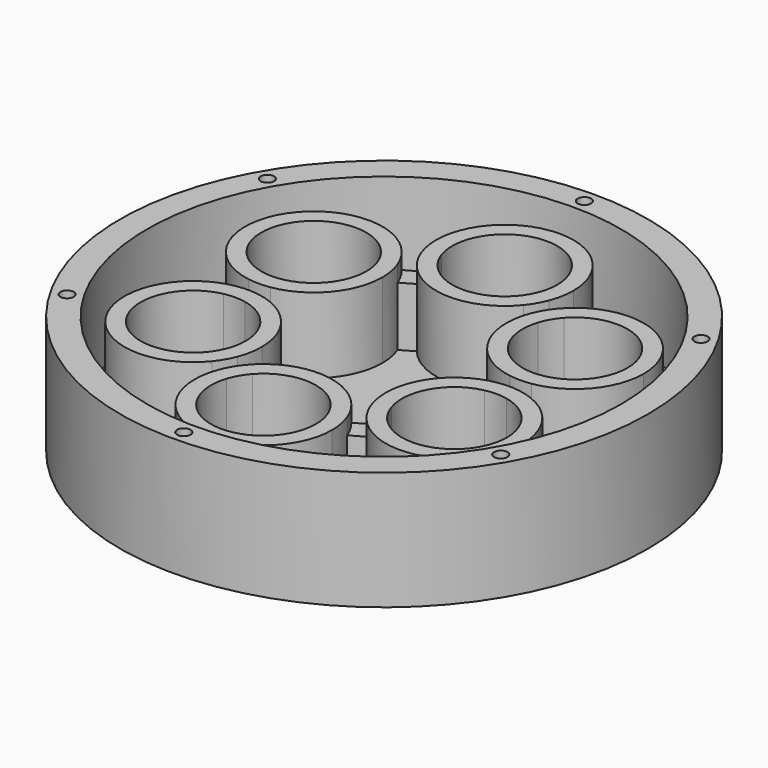
from build123d import *

# Parameters (mm, degrees)
F0_R     = 49
F0_R_2   = 1.25
F0_R_3   = 44
F0_R_4   = 1.75
F1_DEPTH = 5
F2_DEPTH = 19
F3_DEPTH = 16
F4_DEPTH = 22
F5_DEPTH = 20


with BuildPart() as f1:
    # F0 (on Top) → F1 (new body)
    with BuildSketch(Plane.XY):
        Circle(F0_R)
        with Locations((0, -46.4752086141)):
            Circle(F0_R_2, mode=Mode.SUBTRACT)
        with Locations((-40.248711306, -23.237604307)):
            Circle(F0_R_2, mode=Mode.SUBTRACT)
        Circle(F0_R_3, mode=Mode.SUBTRACT)
        with Locations((40.248711306, -23.237604307)):
            Circle(F0_R_2, mode=Mode.SUBTRACT)
        with Locations((-40.248711306, 23.237604307)):
            Circle(F0_R_2, mode=Mode.SUBTRACT)
        with Locations((0, 46.4752086141)):
            Circle(F0_R_2, mode=Mode.SUBTRACT)
        with Locations((40.248711306, 23.237604307)):
            Circle(F0_R_2, mode=Mode.SUBTRACT)
        Circle(F0_R_3)
        with BuildLine():
            Line((-14.3435806327, 22.0281309373), (-11.9051306732, 23.4359706778))
            ThreePointArc((-11.9051306732, 23.4359706778), (-2.3207847721, 40.5370035512), (12.75, 28))
            ThreePointArc((12.75, 28), (12.5370035512, 25.6792152279), (11.9051306732, 23.4359706778))
            Line((11.9051306732, 23.4359706778), (14.3435806327, 22.0281309373))
            ThreePointArc((14.3435806327, 22.0281309373), (28.5073545122, 26.0177559487), (36.998711306, 14))
            ThreePointArc((36.998711306, 14), (33.9456824826, 5.7216396551), (26.248711306, 1.4078397405))
            Line((26.248711306, 1.4078397405), (26.248711306, -1.4078397405))
            ThreePointArc((26.248711306, -1.4078397405), (33.9456824826, -5.7216396551), (36.998711306, -14))
            ThreePointArc((36.998711306, -14), (28.5073545122, -26.0177559487), (14.3435806327, -22.0281309373))
            Line((14.3435806327, -22.0281309373), (11.9051306732, -23.4359706778))
            ThreePointArc((11.9051306732, -23.4359706778), (12.5370035512, -25.6792152279), (12.75, -28))
            ThreePointArc((12.75, -28), (-2.3207847721, -40.5370035512), (-11.9051306732, -23.4359706778))
            Line((-11.9051306732, -23.4359706778), (-14.3435806327, -22.0281309373))
            ThreePointArc((-14.3435806327, -22.0281309373), (-35.2905352042, -20.375), (-26.248711306, -1.4078397405))
            Line((-26.248711306, -1.4078397405), (-26.248711306, 1.4078397405))
            ThreePointArc((-26.248711306, 1.4078397405), (-35.2905352042, 20.375), (-14.3435806327, 22.0281309373))
        make_face(mode=Mode.SUBTRACT)
        with BuildLine():
            ThreePointArc((9.9051306732, 19.9718690627), (0, 15.25), (-9.9051306732, 19.9718690627))
            Line((-9.9051306732, 19.9718690627), (-12.3435806327, 18.5640293222))
            ThreePointArc((-12.3435806327, 18.5640293222), (-11.7117077548, 16.3207847721), (-11.498711306, 14))
            ThreePointArc((-11.498711306, 14), (-14.5517401294, 5.7216396551), (-22.248711306, 1.4078397405))
            Line((-22.248711306, 1.4078397405), (-22.248711306, -1.4078397405))
            ThreePointArc((-22.248711306, -1.4078397405), (-14.5517401294, -5.7216396551), (-11.498711306, -14))
            ThreePointArc((-11.498711306, -14), (-11.7117077548, -16.3207847721), (-12.3435806327, -18.5640293222))
            Line((-12.3435806327, -18.5640293222), (-9.9051306732, -19.9718690627))
            ThreePointArc((-9.9051306732, -19.9718690627), (0, -15.25), (9.9051306732, -19.9718690627))
            Line((9.9051306732, -19.9718690627), (12.3435806327, -18.5640293222))
            ThreePointArc((12.3435806327, -18.5640293222), (13.2068874077, -7.625), (22.248711306, -1.4078397405))
            Line((22.248711306, -1.4078397405), (22.248711306, 1.4078397405))
            ThreePointArc((22.248711306, 1.4078397405), (13.2068874077, 7.625), (12.3435806327, 18.5640293222))
            Line((12.3435806327, 18.5640293222), (9.9051306732, 19.9718690627))
        make_face()
        Circle(F0_R_4, mode=Mode.SUBTRACT)
        with BuildLine():
            ThreePointArc((33.998711306, 14), (27.7298479525, 23.1073699633), (16.9845189679, 20.5033844786))
            Line((16.9845189679, 20.5033844786), (26.248711306, 15.1547005384))
            Line((26.248711306, 15.1547005384), (26.248711306, 4.457332658))
            ThreePointArc((26.248711306, 4.457332658), (31.8171490576, 7.8533545734), (33.998711306, 14))
        make_face()
        with BuildLine():
            Line((0, -30.3094010768), (-9.264192338, -24.9607171366))
            ThreePointArc((-9.264192338, -24.9607171366), (-1.5389322117, -37.6277820731), (9.75, -28))
            ThreePointArc((9.75, -28), (9.6277820731, -26.4610677883), (9.264192338, -24.9607171366))
            Line((9.264192338, -24.9607171366), (0, -30.3094010768))
        make_face()
        with BuildLine():
            ThreePointArc((33.998711306, -14), (31.8171490576, -7.8533545734), (26.248711306, -4.457332658))
            Line((26.248711306, -4.457332658), (26.248711306, -15.1547005384))
            Line((26.248711306, -15.1547005384), (16.9845189679, -20.5033844786))
            ThreePointArc((16.9845189679, -20.5033844786), (27.7298479525, -23.1073699633), (33.998711306, -14))
        make_face()
        with BuildLine():
            Line((-26.248711306, -15.1547005384), (-26.248711306, -4.457332658))
            ThreePointArc((-26.248711306, -4.457332658), (-32.6924589929, -18.875), (-16.9845189679, -20.5033844786))
            Line((-16.9845189679, -20.5033844786), (-26.248711306, -15.1547005384))
        make_face()
        with BuildLine():
            ThreePointArc((9.264192338, 24.9607171366), (9.6277820731, 26.4610677883), (9.75, 28))
            ThreePointArc((9.75, 28), (-1.5389322117, 37.6277820731), (-9.264192338, 24.9607171366))
            Line((-9.264192338, 24.9607171366), (0, 30.3094010768))
            Line((0, 30.3094010768), (9.264192338, 24.9607171366))
        make_face()
        with BuildLine():
            Line((-26.248711306, 15.1547005384), (-16.9845189679, 20.5033844786))
            ThreePointArc((-16.9845189679, 20.5033844786), (-32.6924589929, 18.875), (-26.248711306, 4.457332658))
            Line((-26.248711306, 4.457332658), (-26.248711306, 15.1547005384))
        make_face()
        with BuildLine():
            ThreePointArc((36.998711306, -14), (33.9456824826, -5.7216396551), (26.248711306, -1.4078397405))
            Line((26.248711306, -1.4078397405), (26.248711306, -4.457332658))
            ThreePointArc((26.248711306, -4.457332658), (31.8171490576, -7.8533545734), (33.998711306, -14))
            ThreePointArc((33.998711306, -14), (27.7298479525, -23.1073699633), (16.9845189679, -20.5033844786))
            Line((16.9845189679, -20.5033844786), (14.3435806327, -22.0281309373))
            ThreePointArc((14.3435806327, -22.0281309373), (28.5073545122, -26.0177559487), (36.998711306, -14))
        make_face()
        with BuildLine():
            ThreePointArc((-9.264192338, 24.9607171366), (-1.5389322117, 37.6277820731), (9.75, 28))
            ThreePointArc((9.75, 28), (9.6277820731, 26.4610677883), (9.264192338, 24.9607171366))
            Line((9.264192338, 24.9607171366), (11.9051306732, 23.4359706778))
            ThreePointArc((11.9051306732, 23.4359706778), (12.5370035512, 25.6792152279), (12.75, 28))
            ThreePointArc((12.75, 28), (-2.3207847721, 40.5370035512), (-11.9051306732, 23.4359706778))
            Line((-11.9051306732, 23.4359706778), (-9.264192338, 24.9607171366))
        make_face()
        with BuildLine():
            Line((-9.264192338, -24.9607171366), (-11.9051306732, -23.4359706778))
            ThreePointArc((-11.9051306732, -23.4359706778), (-2.3207847721, -40.5370035512), (12.75, -28))
            ThreePointArc((12.75, -28), (12.5370035512, -25.6792152279), (11.9051306732, -23.4359706778))
            Line((11.9051306732, -23.4359706778), (9.264192338, -24.9607171366))
            ThreePointArc((9.264192338, -24.9607171366), (9.6277820731, -26.4610677883), (9.75, -28))
            ThreePointArc((9.75, -28), (-1.5389322117, -37.6277820731), (-9.264192338, -24.9607171366))
        make_face()
        with BuildLine():
            Line((-16.9845189679, 20.5033844786), (-14.3435806327, 22.0281309373))
            ThreePointArc((-14.3435806327, 22.0281309373), (-35.2905352042, 20.375), (-26.248711306, 1.4078397405))
            Line((-26.248711306, 1.4078397405), (-26.248711306, 4.457332658))
            ThreePointArc((-26.248711306, 4.457332658), (-32.6924589929, 18.875), (-16.9845189679, 20.5033844786))
        make_face()
        with BuildLine():
            Line((-26.248711306, -4.457332658), (-26.248711306, -1.4078397405))
            ThreePointArc((-26.248711306, -1.4078397405), (-35.2905352042, -20.375), (-14.3435806327, -22.0281309373))
            Line((-14.3435806327, -22.0281309373), (-16.9845189679, -20.5033844786))
            ThreePointArc((-16.9845189679, -20.5033844786), (-32.6924589929, -18.875), (-26.248711306, -4.457332658))
        make_face()
        with BuildLine():
            ThreePointArc((36.998711306, 14), (28.5073545122, 26.0177559487), (14.3435806327, 22.0281309373))
            Line((14.3435806327, 22.0281309373), (16.9845189679, 20.5033844786))
            ThreePointArc((16.9845189679, 20.5033844786), (27.7298479525, 23.1073699633), (33.998711306, 14))
            ThreePointArc((33.998711306, 14), (31.8171490576, 7.8533545734), (26.248711306, 4.457332658))
            Line((26.248711306, 4.457332658), (26.248711306, 1.4078397405))
            ThreePointArc((26.248711306, 1.4078397405), (33.9456824826, 5.7216396551), (36.998711306, 14))
        make_face()
        with BuildLine():
            ThreePointArc((-22.248711306, -4.457332658), (-24.248711306, -4.25), (-26.248711306, -4.457332658))
            Line((-26.248711306, -4.457332658), (-26.248711306, -15.1547005384))
            Line((-26.248711306, -15.1547005384), (-16.9845189679, -20.5033844786))
            ThreePointArc((-16.9845189679, -20.5033844786), (-15.8049636191, -18.875), (-14.9845189679, -17.0392828634))
            Line((-14.9845189679, -17.0392828634), (-22.248711306, -12.8452994616))
            Line((-22.248711306, -12.8452994616), (-22.248711306, -4.457332658))
        make_face()
        with BuildLine():
            ThreePointArc((-7.264192338, -21.4966155214), (-8.4437476869, -23.125), (-9.264192338, -24.9607171366))
            Line((-9.264192338, -24.9607171366), (0, -30.3094010768))
            Line((0, -30.3094010768), (9.264192338, -24.9607171366))
            ThreePointArc((9.264192338, -24.9607171366), (8.4437476869, -23.125), (7.264192338, -21.4966155214))
            Line((7.264192338, -21.4966155214), (0, -25.6905989232))
            Line((0, -25.6905989232), (-7.264192338, -21.4966155214))
        make_face()
        with BuildLine():
            Line((26.248711306, 15.1547005384), (16.9845189679, 20.5033844786))
            ThreePointArc((16.9845189679, 20.5033844786), (15.8049636191, 18.875), (14.9845189679, 17.0392828634))
            Line((14.9845189679, 17.0392828634), (22.248711306, 12.8452994616))
            Line((22.248711306, 12.8452994616), (22.248711306, 4.457332658))
            ThreePointArc((22.248711306, 4.457332658), (24.248711306, 4.25), (26.248711306, 4.457332658))
            Line((26.248711306, 4.457332658), (26.248711306, 15.1547005384))
        make_face()
        with BuildLine():
            Line((0, 30.3094010768), (-9.264192338, 24.9607171366))
            ThreePointArc((-9.264192338, 24.9607171366), (-8.4437476869, 23.125), (-7.264192338, 21.4966155214))
            Line((-7.264192338, 21.4966155214), (0, 25.6905989232))
            Line((0, 25.6905989232), (7.264192338, 21.4966155214))
            ThreePointArc((7.264192338, 21.4966155214), (8.4437476869, 23.125), (9.264192338, 24.9607171366))
            Line((9.264192338, 24.9607171366), (0, 30.3094010768))
        make_face()
        with BuildLine():
            ThreePointArc((26.248711306, -4.457332658), (24.248711306, -4.25), (22.248711306, -4.457332658))
            Line((22.248711306, -4.457332658), (22.248711306, -12.8452994616))
            Line((22.248711306, -12.8452994616), (14.9845189679, -17.0392828634))
            ThreePointArc((14.9845189679, -17.0392828634), (15.8049636191, -18.875), (16.9845189679, -20.5033844786))
            Line((16.9845189679, -20.5033844786), (26.248711306, -15.1547005384))
            Line((26.248711306, -15.1547005384), (26.248711306, -4.457332658))
        make_face()
        with BuildLine():
            ThreePointArc((-14.9845189679, 17.0392828634), (-15.8049636191, 18.875), (-16.9845189679, 20.5033844786))
            Line((-16.9845189679, 20.5033844786), (-26.248711306, 15.1547005384))
            Line((-26.248711306, 15.1547005384), (-26.248711306, 4.457332658))
            ThreePointArc((-26.248711306, 4.457332658), (-24.248711306, 4.25), (-22.248711306, 4.457332658))
            Line((-22.248711306, 4.457332658), (-22.248711306, 12.8452994616))
            Line((-22.248711306, 12.8452994616), (-14.9845189679, 17.0392828634))
        make_face()
        with BuildLine():
            ThreePointArc((-14.498711306, -14), (-16.6802735544, -7.8533545734), (-22.248711306, -4.457332658))
            Line((-22.248711306, -4.457332658), (-22.248711306, -12.8452994616))
            Line((-22.248711306, -12.8452994616), (-14.9845189679, -17.0392828634))
            ThreePointArc((-14.9845189679, -17.0392828634), (-14.6209292328, -15.5389322117), (-14.498711306, -14))
        make_face()
        with BuildLine():
            ThreePointArc((7.264192338, -21.4966155214), (0, -18.25), (-7.264192338, -21.4966155214))
            Line((-7.264192338, -21.4966155214), (0, -25.6905989232))
            Line((0, -25.6905989232), (7.264192338, -21.4966155214))
        make_face()
        with BuildLine():
            ThreePointArc((-14.498711306, 14), (-14.6209292328, 15.5389322117), (-14.9845189679, 17.0392828634))
            Line((-14.9845189679, 17.0392828634), (-22.248711306, 12.8452994616))
            Line((-22.248711306, 12.8452994616), (-22.248711306, 4.457332658))
            ThreePointArc((-22.248711306, 4.457332658), (-16.6802735544, 7.8533545734), (-14.498711306, 14))
        make_face()
        with BuildLine():
            Line((22.248711306, 12.8452994616), (14.9845189679, 17.0392828634))
            ThreePointArc((14.9845189679, 17.0392828634), (15.8049636191, 9.125), (22.248711306, 4.457332658))
            Line((22.248711306, 4.457332658), (22.248711306, 12.8452994616))
        make_face()
        with BuildLine():
            Line((22.248711306, -12.8452994616), (22.248711306, -4.457332658))
            ThreePointArc((22.248711306, -4.457332658), (15.8049636191, -9.125), (14.9845189679, -17.0392828634))
            Line((14.9845189679, -17.0392828634), (22.248711306, -12.8452994616))
        make_face()
        with BuildLine():
            Line((0, 25.6905989232), (-7.264192338, 21.4966155214))
            ThreePointArc((-7.264192338, 21.4966155214), (0, 18.25), (7.264192338, 21.4966155214))
            Line((7.264192338, 21.4966155214), (0, 25.6905989232))
        make_face()
        with BuildLine():
            Line((22.248711306, -4.457332658), (22.248711306, -1.4078397405))
            ThreePointArc((22.248711306, -1.4078397405), (13.2068874077, -7.625), (12.3435806327, -18.5640293222))
            Line((12.3435806327, -18.5640293222), (14.9845189679, -17.0392828634))
            ThreePointArc((14.9845189679, -17.0392828634), (15.8049636191, -9.125), (22.248711306, -4.457332658))
        make_face()
        with BuildLine():
            ThreePointArc((9.9051306732, -19.9718690627), (0, -15.25), (-9.9051306732, -19.9718690627))
            Line((-9.9051306732, -19.9718690627), (-7.264192338, -21.4966155214))
            ThreePointArc((-7.264192338, -21.4966155214), (0, -18.25), (7.264192338, -21.4966155214))
            Line((7.264192338, -21.4966155214), (9.9051306732, -19.9718690627))
        make_face()
        with BuildLine():
            ThreePointArc((7.264192338, 21.4966155214), (0, 18.25), (-7.264192338, 21.4966155214))
            Line((-7.264192338, 21.4966155214), (-9.9051306732, 19.9718690627))
            ThreePointArc((-9.9051306732, 19.9718690627), (0, 15.25), (9.9051306732, 19.9718690627))
            Line((9.9051306732, 19.9718690627), (7.264192338, 21.4966155214))
        make_face()
        with BuildLine():
            ThreePointArc((-11.498711306, 14), (-11.7117077548, 16.3207847721), (-12.3435806327, 18.5640293222))
            Line((-12.3435806327, 18.5640293222), (-14.9845189679, 17.0392828634))
            ThreePointArc((-14.9845189679, 17.0392828634), (-14.6209292328, 15.5389322117), (-14.498711306, 14))
            ThreePointArc((-14.498711306, 14), (-16.6802735544, 7.8533545734), (-22.248711306, 4.457332658))
            Line((-22.248711306, 4.457332658), (-22.248711306, 1.4078397405))
            ThreePointArc((-22.248711306, 1.4078397405), (-14.5517401294, 5.7216396551), (-11.498711306, 14))
        make_face()
        with BuildLine():
            ThreePointArc((-11.498711306, -14), (-14.5517401294, -5.7216396551), (-22.248711306, -1.4078397405))
            Line((-22.248711306, -1.4078397405), (-22.248711306, -4.457332658))
            ThreePointArc((-22.248711306, -4.457332658), (-16.6802735544, -7.8533545734), (-14.498711306, -14))
            ThreePointArc((-14.498711306, -14), (-14.6209292328, -15.5389322117), (-14.9845189679, -17.0392828634))
            Line((-14.9845189679, -17.0392828634), (-12.3435806327, -18.5640293222))
            ThreePointArc((-12.3435806327, -18.5640293222), (-11.7117077548, -16.3207847721), (-11.498711306, -14))
        make_face()
        with BuildLine():
            Line((14.9845189679, 17.0392828634), (12.3435806327, 18.5640293222))
            ThreePointArc((12.3435806327, 18.5640293222), (13.2068874077, 7.625), (22.248711306, 1.4078397405))
            Line((22.248711306, 1.4078397405), (22.248711306, 4.457332658))
            ThreePointArc((22.248711306, 4.457332658), (15.8049636191, 9.125), (14.9845189679, 17.0392828634))
        make_face()
        with BuildLine():
            ThreePointArc((-9.9051306732, -19.9718690627), (-11.0418238983, -21.625), (-11.9051306732, -23.4359706778))
            Line((-11.9051306732, -23.4359706778), (-9.264192338, -24.9607171366))
            ThreePointArc((-9.264192338, -24.9607171366), (-8.4437476869, -23.125), (-7.264192338, -21.4966155214))
            Line((-7.264192338, -21.4966155214), (-9.9051306732, -19.9718690627))
        make_face()
        with BuildLine():
            Line((-16.9845189679, -20.5033844786), (-14.3435806327, -22.0281309373))
            ThreePointArc((-14.3435806327, -22.0281309373), (-13.2068874077, -20.375), (-12.3435806327, -18.5640293222))
            Line((-12.3435806327, -18.5640293222), (-14.9845189679, -17.0392828634))
            ThreePointArc((-14.9845189679, -17.0392828634), (-15.8049636191, -18.875), (-16.9845189679, -20.5033844786))
        make_face()
        with BuildLine():
            ThreePointArc((-12.3435806327, 18.5640293222), (-13.2068874077, 20.375), (-14.3435806327, 22.0281309373))
            Line((-14.3435806327, 22.0281309373), (-16.9845189679, 20.5033844786))
            ThreePointArc((-16.9845189679, 20.5033844786), (-15.8049636191, 18.875), (-14.9845189679, 17.0392828634))
            Line((-14.9845189679, 17.0392828634), (-12.3435806327, 18.5640293222))
        make_face()
        with BuildLine():
            Line((-26.248711306, 4.457332658), (-26.248711306, 1.4078397405))
            ThreePointArc((-26.248711306, 1.4078397405), (-24.248711306, 1.25), (-22.248711306, 1.4078397405))
            Line((-22.248711306, 1.4078397405), (-22.248711306, 4.457332658))
            ThreePointArc((-22.248711306, 4.457332658), (-24.248711306, 4.25), (-26.248711306, 4.457332658))
        make_face()
        with BuildLine():
            Line((11.9051306732, 23.4359706778), (9.264192338, 24.9607171366))
            ThreePointArc((9.264192338, 24.9607171366), (8.4437476869, 23.125), (7.264192338, 21.4966155214))
            Line((7.264192338, 21.4966155214), (9.9051306732, 19.9718690627))
            ThreePointArc((9.9051306732, 19.9718690627), (11.0418238983, 21.625), (11.9051306732, 23.4359706778))
        make_face()
        with BuildLine():
            ThreePointArc((11.9051306732, -23.4359706778), (11.0418238983, -21.625), (9.9051306732, -19.9718690627))
            Line((9.9051306732, -19.9718690627), (7.264192338, -21.4966155214))
            ThreePointArc((7.264192338, -21.4966155214), (8.4437476869, -23.125), (9.264192338, -24.9607171366))
            Line((9.264192338, -24.9607171366), (11.9051306732, -23.4359706778))
        make_face()
        with BuildLine():
            Line((22.248711306, 4.457332658), (22.248711306, 1.4078397405))
            ThreePointArc((22.248711306, 1.4078397405), (24.248711306, 1.25), (26.248711306, 1.4078397405))
            Line((26.248711306, 1.4078397405), (26.248711306, 4.457332658))
            ThreePointArc((26.248711306, 4.457332658), (24.248711306, 4.25), (22.248711306, 4.457332658))
        make_face()
        with BuildLine():
            ThreePointArc((-7.264192338, 21.4966155214), (-8.4437476869, 23.125), (-9.264192338, 24.9607171366))
            Line((-9.264192338, 24.9607171366), (-11.9051306732, 23.4359706778))
            ThreePointArc((-11.9051306732, 23.4359706778), (-11.0418238983, 21.625), (-9.9051306732, 19.9718690627))
            Line((-9.9051306732, 19.9718690627), (-7.264192338, 21.4966155214))
        make_face()
        with BuildLine():
            Line((16.9845189679, 20.5033844786), (14.3435806327, 22.0281309373))
            ThreePointArc((14.3435806327, 22.0281309373), (13.2068874077, 20.375), (12.3435806327, 18.5640293222))
            Line((12.3435806327, 18.5640293222), (14.9845189679, 17.0392828634))
            ThreePointArc((14.9845189679, 17.0392828634), (15.8049636191, 18.875), (16.9845189679, 20.5033844786))
        make_face()
        with BuildLine():
            ThreePointArc((-22.248711306, -1.4078397405), (-24.248711306, -1.25), (-26.248711306, -1.4078397405))
            Line((-26.248711306, -1.4078397405), (-26.248711306, -4.457332658))
            ThreePointArc((-26.248711306, -4.457332658), (-24.248711306, -4.25), (-22.248711306, -4.457332658))
            Line((-22.248711306, -4.457332658), (-22.248711306, -1.4078397405))
        make_face()
        with BuildLine():
            ThreePointArc((26.248711306, -1.4078397405), (24.248711306, -1.25), (22.248711306, -1.4078397405))
            Line((22.248711306, -1.4078397405), (22.248711306, -4.457332658))
            ThreePointArc((22.248711306, -4.457332658), (24.248711306, -4.25), (26.248711306, -4.457332658))
            Line((26.248711306, -4.457332658), (26.248711306, -1.4078397405))
        make_face()
        with BuildLine():
            Line((14.9845189679, -17.0392828634), (12.3435806327, -18.5640293222))
            ThreePointArc((12.3435806327, -18.5640293222), (13.2068874077, -20.375), (14.3435806327, -22.0281309373))
            Line((14.3435806327, -22.0281309373), (16.9845189679, -20.5033844786))
            ThreePointArc((16.9845189679, -20.5033844786), (15.8049636191, -18.875), (14.9845189679, -17.0392828634))
        make_face()
        with BuildLine():
            ThreePointArc((-12.3435806327, -18.5640293222), (-13.2068874077, -20.375), (-14.3435806327, -22.0281309373))
            Line((-14.3435806327, -22.0281309373), (-11.9051306732, -23.4359706778))
            ThreePointArc((-11.9051306732, -23.4359706778), (-11.0418238983, -21.625), (-9.9051306732, -19.9718690627))
            Line((-9.9051306732, -19.9718690627), (-12.3435806327, -18.5640293222))
        make_face()
        with BuildLine():
            Line((14.3435806327, 22.0281309373), (11.9051306732, 23.4359706778))
            ThreePointArc((11.9051306732, 23.4359706778), (11.0418238983, 21.625), (9.9051306732, 19.9718690627))
            Line((9.9051306732, 19.9718690627), (12.3435806327, 18.5640293222))
            ThreePointArc((12.3435806327, 18.5640293222), (13.2068874077, 20.375), (14.3435806327, 22.0281309373))
        make_face()
        with BuildLine():
            ThreePointArc((14.3435806327, -22.0281309373), (13.2068874077, -20.375), (12.3435806327, -18.5640293222))
            Line((12.3435806327, -18.5640293222), (9.9051306732, -19.9718690627))
            ThreePointArc((9.9051306732, -19.9718690627), (11.0418238983, -21.625), (11.9051306732, -23.4359706778))
            Line((11.9051306732, -23.4359706778), (14.3435806327, -22.0281309373))
        make_face()
        with BuildLine():
            ThreePointArc((-9.9051306732, 19.9718690627), (-11.0418238983, 21.625), (-11.9051306732, 23.4359706778))
            Line((-11.9051306732, 23.4359706778), (-14.3435806327, 22.0281309373))
            ThreePointArc((-14.3435806327, 22.0281309373), (-13.2068874077, 20.375), (-12.3435806327, 18.5640293222))
            Line((-12.3435806327, 18.5640293222), (-9.9051306732, 19.9718690627))
        make_face()
        with BuildLine():
            ThreePointArc((26.248711306, 1.4078397405), (24.248711306, 1.25), (22.248711306, 1.4078397405))
            Line((22.248711306, 1.4078397405), (22.248711306, -1.4078397405))
            ThreePointArc((22.248711306, -1.4078397405), (24.248711306, -1.25), (26.248711306, -1.4078397405))
            Line((26.248711306, -1.4078397405), (26.248711306, 1.4078397405))
        make_face()
        with BuildLine():
            ThreePointArc((-22.248711306, 1.4078397405), (-24.248711306, 1.25), (-26.248711306, 1.4078397405))
            Line((-26.248711306, 1.4078397405), (-26.248711306, -1.4078397405))
            ThreePointArc((-26.248711306, -1.4078397405), (-24.248711306, -1.25), (-22.248711306, -1.4078397405))
            Line((-22.248711306, -1.4078397405), (-22.248711306, 1.4078397405))
        make_face()
    extrude(amount=F1_DEPTH)

    # F0 (on Top) → F2 (join)
    with BuildSketch(Plane.XY):
        Circle(F0_R)
        with Locations((0, -46.4752086141)):
            Circle(F0_R_2, mode=Mode.SUBTRACT)
        with Locations((-40.248711306, -23.237604307)):
            Circle(F0_R_2, mode=Mode.SUBTRACT)
        Circle(F0_R_3, mode=Mode.SUBTRACT)
        with Locations((40.248711306, -23.237604307)):
            Circle(F0_R_2, mode=Mode.SUBTRACT)
        with Locations((-40.248711306, 23.237604307)):
            Circle(F0_R_2, mode=Mode.SUBTRACT)
        with Locations((0, 46.4752086141)):
            Circle(F0_R_2, mode=Mode.SUBTRACT)
        with Locations((40.248711306, 23.237604307)):
            Circle(F0_R_2, mode=Mode.SUBTRACT)
        with BuildLine():
            ThreePointArc((-11.498711306, 14), (-11.7117077548, 16.3207847721), (-12.3435806327, 18.5640293222))
            Line((-12.3435806327, 18.5640293222), (-14.9845189679, 17.0392828634))
            ThreePointArc((-14.9845189679, 17.0392828634), (-14.6209292328, 15.5389322117), (-14.498711306, 14))
            ThreePointArc((-14.498711306, 14), (-16.6802735544, 7.8533545734), (-22.248711306, 4.457332658))
            Line((-22.248711306, 4.457332658), (-22.248711306, 1.4078397405))
            ThreePointArc((-22.248711306, 1.4078397405), (-14.5517401294, 5.7216396551), (-11.498711306, 14))
        make_face()
        with BuildLine():
            ThreePointArc((-12.3435806327, 18.5640293222), (-13.2068874077, 20.375), (-14.3435806327, 22.0281309373))
            Line((-14.3435806327, 22.0281309373), (-16.9845189679, 20.5033844786))
            ThreePointArc((-16.9845189679, 20.5033844786), (-15.8049636191, 18.875), (-14.9845189679, 17.0392828634))
            Line((-14.9845189679, 17.0392828634), (-12.3435806327, 18.5640293222))
        make_face()
        with BuildLine():
            Line((-16.9845189679, 20.5033844786), (-14.3435806327, 22.0281309373))
            ThreePointArc((-14.3435806327, 22.0281309373), (-35.2905352042, 20.375), (-26.248711306, 1.4078397405))
            Line((-26.248711306, 1.4078397405), (-26.248711306, 4.457332658))
            ThreePointArc((-26.248711306, 4.457332658), (-32.6924589929, 18.875), (-16.9845189679, 20.5033844786))
        make_face()
        with BuildLine():
            Line((-26.248711306, 4.457332658), (-26.248711306, 1.4078397405))
            ThreePointArc((-26.248711306, 1.4078397405), (-24.248711306, 1.25), (-22.248711306, 1.4078397405))
            Line((-22.248711306, 1.4078397405), (-22.248711306, 4.457332658))
            ThreePointArc((-22.248711306, 4.457332658), (-24.248711306, 4.25), (-26.248711306, 4.457332658))
        make_face()
        with BuildLine():
            ThreePointArc((-7.264192338, 21.4966155214), (-8.4437476869, 23.125), (-9.264192338, 24.9607171366))
            Line((-9.264192338, 24.9607171366), (-11.9051306732, 23.4359706778))
            ThreePointArc((-11.9051306732, 23.4359706778), (-11.0418238983, 21.625), (-9.9051306732, 19.9718690627))
            Line((-9.9051306732, 19.9718690627), (-7.264192338, 21.4966155214))
        make_face()
        with BuildLine():
            ThreePointArc((-9.264192338, 24.9607171366), (-1.5389322117, 37.6277820731), (9.75, 28))
            ThreePointArc((9.75, 28), (9.6277820731, 26.4610677883), (9.264192338, 24.9607171366))
            Line((9.264192338, 24.9607171366), (11.9051306732, 23.4359706778))
            ThreePointArc((11.9051306732, 23.4359706778), (12.5370035512, 25.6792152279), (12.75, 28))
            ThreePointArc((12.75, 28), (-2.3207847721, 40.5370035512), (-11.9051306732, 23.4359706778))
            Line((-11.9051306732, 23.4359706778), (-9.264192338, 24.9607171366))
        make_face()
        with BuildLine():
            Line((11.9051306732, 23.4359706778), (9.264192338, 24.9607171366))
            ThreePointArc((9.264192338, 24.9607171366), (8.4437476869, 23.125), (7.264192338, 21.4966155214))
            Line((7.264192338, 21.4966155214), (9.9051306732, 19.9718690627))
            ThreePointArc((9.9051306732, 19.9718690627), (11.0418238983, 21.625), (11.9051306732, 23.4359706778))
        make_face()
        with BuildLine():
            ThreePointArc((7.264192338, 21.4966155214), (0, 18.25), (-7.264192338, 21.4966155214))
            Line((-7.264192338, 21.4966155214), (-9.9051306732, 19.9718690627))
            ThreePointArc((-9.9051306732, 19.9718690627), (0, 15.25), (9.9051306732, 19.9718690627))
            Line((9.9051306732, 19.9718690627), (7.264192338, 21.4966155214))
        make_face()
        with BuildLine():
            Line((16.9845189679, 20.5033844786), (14.3435806327, 22.0281309373))
            ThreePointArc((14.3435806327, 22.0281309373), (13.2068874077, 20.375), (12.3435806327, 18.5640293222))
            Line((12.3435806327, 18.5640293222), (14.9845189679, 17.0392828634))
            ThreePointArc((14.9845189679, 17.0392828634), (15.8049636191, 18.875), (16.9845189679, 20.5033844786))
        make_face()
        with BuildLine():
            ThreePointArc((36.998711306, 14), (28.5073545122, 26.0177559487), (14.3435806327, 22.0281309373))
            Line((14.3435806327, 22.0281309373), (16.9845189679, 20.5033844786))
            ThreePointArc((16.9845189679, 20.5033844786), (27.7298479525, 23.1073699633), (33.998711306, 14))
            ThreePointArc((33.998711306, 14), (31.8171490576, 7.8533545734), (26.248711306, 4.457332658))
            Line((26.248711306, 4.457332658), (26.248711306, 1.4078397405))
            ThreePointArc((26.248711306, 1.4078397405), (33.9456824826, 5.7216396551), (36.998711306, 14))
        make_face()
        with BuildLine():
            Line((14.9845189679, 17.0392828634), (12.3435806327, 18.5640293222))
            ThreePointArc((12.3435806327, 18.5640293222), (13.2068874077, 7.625), (22.248711306, 1.4078397405))
            Line((22.248711306, 1.4078397405), (22.248711306, 4.457332658))
            ThreePointArc((22.248711306, 4.457332658), (15.8049636191, 9.125), (14.9845189679, 17.0392828634))
        make_face()
        with BuildLine():
            Line((22.248711306, 4.457332658), (22.248711306, 1.4078397405))
            ThreePointArc((22.248711306, 1.4078397405), (24.248711306, 1.25), (26.248711306, 1.4078397405))
            Line((26.248711306, 1.4078397405), (26.248711306, 4.457332658))
            ThreePointArc((26.248711306, 4.457332658), (24.248711306, 4.25), (22.248711306, 4.457332658))
        make_face()
        with BuildLine():
            Line((-26.248711306, -4.457332658), (-26.248711306, -1.4078397405))
            ThreePointArc((-26.248711306, -1.4078397405), (-35.2905352042, -20.375), (-14.3435806327, -22.0281309373))
            Line((-14.3435806327, -22.0281309373), (-16.9845189679, -20.5033844786))
            ThreePointArc((-16.9845189679, -20.5033844786), (-32.6924589929, -18.875), (-26.248711306, -4.457332658))
        make_face()
        with BuildLine():
            ThreePointArc((-22.248711306, -1.4078397405), (-24.248711306, -1.25), (-26.248711306, -1.4078397405))
            Line((-26.248711306, -1.4078397405), (-26.248711306, -4.457332658))
            ThreePointArc((-26.248711306, -4.457332658), (-24.248711306, -4.25), (-22.248711306, -4.457332658))
            Line((-22.248711306, -4.457332658), (-22.248711306, -1.4078397405))
        make_face()
        with BuildLine():
            ThreePointArc((-11.498711306, -14), (-14.5517401294, -5.7216396551), (-22.248711306, -1.4078397405))
            Line((-22.248711306, -1.4078397405), (-22.248711306, -4.457332658))
            ThreePointArc((-22.248711306, -4.457332658), (-16.6802735544, -7.8533545734), (-14.498711306, -14))
            ThreePointArc((-14.498711306, -14), (-14.6209292328, -15.5389322117), (-14.9845189679, -17.0392828634))
            Line((-14.9845189679, -17.0392828634), (-12.3435806327, -18.5640293222))
            ThreePointArc((-12.3435806327, -18.5640293222), (-11.7117077548, -16.3207847721), (-11.498711306, -14))
        make_face()
        with BuildLine():
            Line((-16.9845189679, -20.5033844786), (-14.3435806327, -22.0281309373))
            ThreePointArc((-14.3435806327, -22.0281309373), (-13.2068874077, -20.375), (-12.3435806327, -18.5640293222))
            Line((-12.3435806327, -18.5640293222), (-14.9845189679, -17.0392828634))
            ThreePointArc((-14.9845189679, -17.0392828634), (-15.8049636191, -18.875), (-16.9845189679, -20.5033844786))
        make_face()
        with BuildLine():
            ThreePointArc((-9.9051306732, -19.9718690627), (-11.0418238983, -21.625), (-11.9051306732, -23.4359706778))
            Line((-11.9051306732, -23.4359706778), (-9.264192338, -24.9607171366))
            ThreePointArc((-9.264192338, -24.9607171366), (-8.4437476869, -23.125), (-7.264192338, -21.4966155214))
            Line((-7.264192338, -21.4966155214), (-9.9051306732, -19.9718690627))
        make_face()
        with BuildLine():
            ThreePointArc((9.9051306732, -19.9718690627), (0, -15.25), (-9.9051306732, -19.9718690627))
            Line((-9.9051306732, -19.9718690627), (-7.264192338, -21.4966155214))
            ThreePointArc((-7.264192338, -21.4966155214), (0, -18.25), (7.264192338, -21.4966155214))
            Line((7.264192338, -21.4966155214), (9.9051306732, -19.9718690627))
        make_face()
        with BuildLine():
            Line((-9.264192338, -24.9607171366), (-11.9051306732, -23.4359706778))
            ThreePointArc((-11.9051306732, -23.4359706778), (-2.3207847721, -40.5370035512), (12.75, -28))
            ThreePointArc((12.75, -28), (12.5370035512, -25.6792152279), (11.9051306732, -23.4359706778))
            Line((11.9051306732, -23.4359706778), (9.264192338, -24.9607171366))
            ThreePointArc((9.264192338, -24.9607171366), (9.6277820731, -26.4610677883), (9.75, -28))
            ThreePointArc((9.75, -28), (-1.5389322117, -37.6277820731), (-9.264192338, -24.9607171366))
        make_face()
        with BuildLine():
            ThreePointArc((11.9051306732, -23.4359706778), (11.0418238983, -21.625), (9.9051306732, -19.9718690627))
            Line((9.9051306732, -19.9718690627), (7.264192338, -21.4966155214))
            ThreePointArc((7.264192338, -21.4966155214), (8.4437476869, -23.125), (9.264192338, -24.9607171366))
            Line((9.264192338, -24.9607171366), (11.9051306732, -23.4359706778))
        make_face()
        with BuildLine():
            Line((14.9845189679, -17.0392828634), (12.3435806327, -18.5640293222))
            ThreePointArc((12.3435806327, -18.5640293222), (13.2068874077, -20.375), (14.3435806327, -22.0281309373))
            Line((14.3435806327, -22.0281309373), (16.9845189679, -20.5033844786))
            ThreePointArc((16.9845189679, -20.5033844786), (15.8049636191, -18.875), (14.9845189679, -17.0392828634))
        make_face()
        with BuildLine():
            Line((22.248711306, -4.457332658), (22.248711306, -1.4078397405))
            ThreePointArc((22.248711306, -1.4078397405), (13.2068874077, -7.625), (12.3435806327, -18.5640293222))
            Line((12.3435806327, -18.5640293222), (14.9845189679, -17.0392828634))
            ThreePointArc((14.9845189679, -17.0392828634), (15.8049636191, -9.125), (22.248711306, -4.457332658))
        make_face()
        with BuildLine():
            ThreePointArc((36.998711306, -14), (33.9456824826, -5.7216396551), (26.248711306, -1.4078397405))
            Line((26.248711306, -1.4078397405), (26.248711306, -4.457332658))
            ThreePointArc((26.248711306, -4.457332658), (31.8171490576, -7.8533545734), (33.998711306, -14))
            ThreePointArc((33.998711306, -14), (27.7298479525, -23.1073699633), (16.9845189679, -20.5033844786))
            Line((16.9845189679, -20.5033844786), (14.3435806327, -22.0281309373))
            ThreePointArc((14.3435806327, -22.0281309373), (28.5073545122, -26.0177559487), (36.998711306, -14))
        make_face()
        with BuildLine():
            ThreePointArc((26.248711306, -1.4078397405), (24.248711306, -1.25), (22.248711306, -1.4078397405))
            Line((22.248711306, -1.4078397405), (22.248711306, -4.457332658))
            ThreePointArc((22.248711306, -4.457332658), (24.248711306, -4.25), (26.248711306, -4.457332658))
            Line((26.248711306, -4.457332658), (26.248711306, -1.4078397405))
        make_face()
    extrude(amount=F2_DEPTH)

    # F0 (on Top) → F3 (join)
    with BuildSketch(Plane.XY):
        with BuildLine():
            ThreePointArc((-9.9051306732, 19.9718690627), (-11.0418238983, 21.625), (-11.9051306732, 23.4359706778))
            Line((-11.9051306732, 23.4359706778), (-14.3435806327, 22.0281309373))
            ThreePointArc((-14.3435806327, 22.0281309373), (-13.2068874077, 20.375), (-12.3435806327, 18.5640293222))
            Line((-12.3435806327, 18.5640293222), (-9.9051306732, 19.9718690627))
        make_face()
        with BuildLine():
            ThreePointArc((-22.248711306, 1.4078397405), (-24.248711306, 1.25), (-26.248711306, 1.4078397405))
            Line((-26.248711306, 1.4078397405), (-26.248711306, -1.4078397405))
            ThreePointArc((-26.248711306, -1.4078397405), (-24.248711306, -1.25), (-22.248711306, -1.4078397405))
            Line((-22.248711306, -1.4078397405), (-22.248711306, 1.4078397405))
        make_face()
        with BuildLine():
            Line((14.3435806327, 22.0281309373), (11.9051306732, 23.4359706778))
            ThreePointArc((11.9051306732, 23.4359706778), (11.0418238983, 21.625), (9.9051306732, 19.9718690627))
            Line((9.9051306732, 19.9718690627), (12.3435806327, 18.5640293222))
            ThreePointArc((12.3435806327, 18.5640293222), (13.2068874077, 20.375), (14.3435806327, 22.0281309373))
        make_face()
        with BuildLine():
            ThreePointArc((26.248711306, 1.4078397405), (24.248711306, 1.25), (22.248711306, 1.4078397405))
            Line((22.248711306, 1.4078397405), (22.248711306, -1.4078397405))
            ThreePointArc((22.248711306, -1.4078397405), (24.248711306, -1.25), (26.248711306, -1.4078397405))
            Line((26.248711306, -1.4078397405), (26.248711306, 1.4078397405))
        make_face()
        with BuildLine():
            ThreePointArc((-12.3435806327, -18.5640293222), (-13.2068874077, -20.375), (-14.3435806327, -22.0281309373))
            Line((-14.3435806327, -22.0281309373), (-11.9051306732, -23.4359706778))
            ThreePointArc((-11.9051306732, -23.4359706778), (-11.0418238983, -21.625), (-9.9051306732, -19.9718690627))
            Line((-9.9051306732, -19.9718690627), (-12.3435806327, -18.5640293222))
        make_face()
        with BuildLine():
            ThreePointArc((14.3435806327, -22.0281309373), (13.2068874077, -20.375), (12.3435806327, -18.5640293222))
            Line((12.3435806327, -18.5640293222), (9.9051306732, -19.9718690627))
            ThreePointArc((9.9051306732, -19.9718690627), (11.0418238983, -21.625), (11.9051306732, -23.4359706778))
            Line((11.9051306732, -23.4359706778), (14.3435806327, -22.0281309373))
        make_face()
    extrude(amount=F3_DEPTH)

    # F0 (on Top) → F4 (join)
    with BuildSketch(Plane.XY):
        Circle(F0_R)
        with Locations((0, -46.4752086141)):
            Circle(F0_R_2, mode=Mode.SUBTRACT)
        with Locations((-40.248711306, -23.237604307)):
            Circle(F0_R_2, mode=Mode.SUBTRACT)
        Circle(F0_R_3, mode=Mode.SUBTRACT)
        with Locations((40.248711306, -23.237604307)):
            Circle(F0_R_2, mode=Mode.SUBTRACT)
        with Locations((-40.248711306, 23.237604307)):
            Circle(F0_R_2, mode=Mode.SUBTRACT)
        with Locations((0, 46.4752086141)):
            Circle(F0_R_2, mode=Mode.SUBTRACT)
        with Locations((40.248711306, 23.237604307)):
            Circle(F0_R_2, mode=Mode.SUBTRACT)
    extrude(amount=F4_DEPTH)

    # F0 (on Top) → F5 (join)
    with BuildSketch(Plane.XY):
        with Locations((-40.248711306, 23.237604307)):
            Circle(F0_R_2)
        with Locations((-40.248711306, -23.237604307)):
            Circle(F0_R_2)
        with Locations((0, -46.4752086141)):
            Circle(F0_R_2)
        with Locations((40.248711306, -23.237604307)):
            Circle(F0_R_2)
        with Locations((40.248711306, 23.237604307)):
            Circle(F0_R_2)
        with Locations((0, 46.4752086141)):
            Circle(F0_R_2)
    extrude(amount=F5_DEPTH)


solid = f1.part
